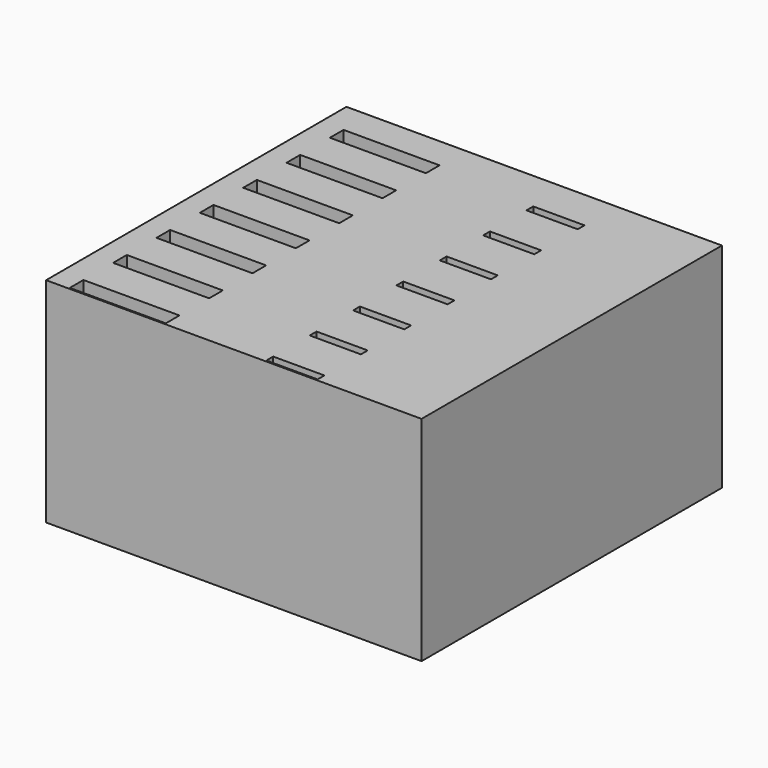
from build123d import *

# Parameters (mm, degrees)
F0_W     = 88
F0_H     = 88
F1_DEPTH = 50
F2_W     = 22.5
F2_H     = 4
F2_W_2   = 12
F2_H_2   = 2
F3_DEPTH = 17.5


with BuildPart() as f1:
    # F0 (on Top) → F1 (new body)
    with BuildSketch(Plane.XY):
        with Locations((4.011764, -4.715418)):
            Rectangle(F0_W, F0_H)
    extrude(amount=F1_DEPTH)

    # F2 (on face) → F3 (cut)
    with BuildSketch(Plane.XY.offset(50)):
        with Locations((-23.445669, 29.813612)):
            Rectangle(F2_W, F2_H)
        with Locations((-23.445669, 17.113612)):
            Rectangle(F2_W, F2_H)
        with Locations((-23.445669, 4.413612)):
            Rectangle(F2_W, F2_H)
        with Locations((-23.445669, -8.286388)):
            Rectangle(F2_W, F2_H)
        with Locations((-23.445669, -20.986388)):
            Rectangle(F2_W, F2_H)
        with Locations((-23.445669, -33.686388)):
            Rectangle(F2_W, F2_H)
        with Locations((-23.445669, -46.386388)):
            Rectangle(F2_W, F2_H)
        with Locations((17.377627, 28.813612)):
            Rectangle(F2_W_2, F2_H_2)
        with Locations((17.377627, 16.113612)):
            Rectangle(F2_W_2, F2_H_2)
        with Locations((17.377627, 3.413612)):
            Rectangle(F2_W_2, F2_H_2)
        with Locations((17.377627, -9.286388)):
            Rectangle(F2_W_2, F2_H_2)
        with Locations((17.377627, -21.986388)):
            Rectangle(F2_W_2, F2_H_2)
        with Locations((17.377627, -34.686388)):
            Rectangle(F2_W_2, F2_H_2)
        with Locations((17.377627, -47.386388)):
            Rectangle(F2_W_2, F2_H_2)
    extrude(amount=-F3_DEPTH, mode=Mode.SUBTRACT)


solid = f1.part
